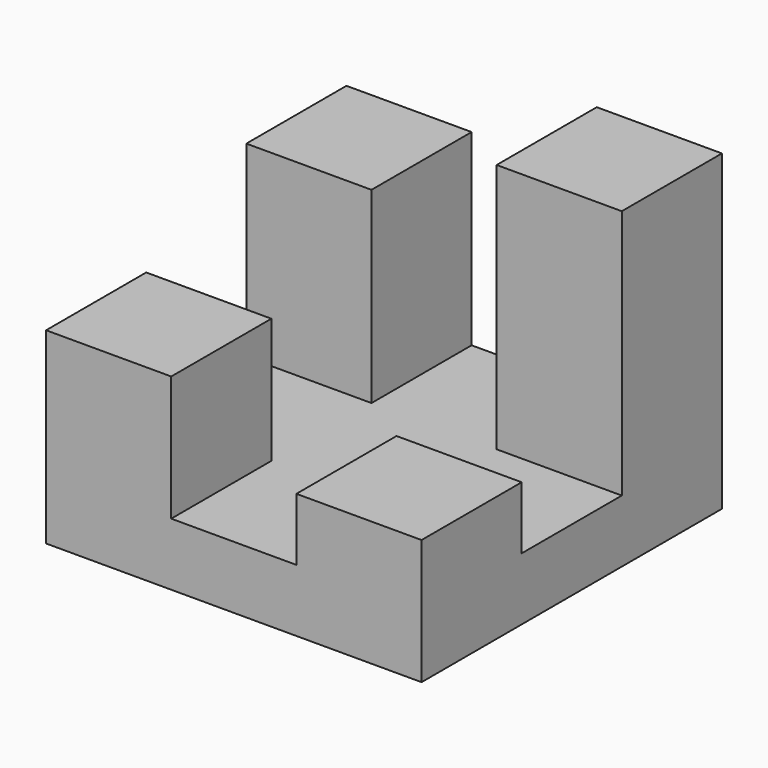
from build123d import *

# Parameters (mm, degrees)
F0_W     = 76.2
F0_H     = 76.2
F1_DEPTH = 12.7
F2_W     = 25.4
F2_H     = 25.4
F3_DEPTH = 12.7
F4_W     = 25.4
F4_H     = 25.4
F5_DEPTH = 25.4
F6_W     = 25.4
F6_H     = 25.4
F7_DEPTH = 50.8
F8_W     = 25.4
F8_H     = 25.4
F9_DEPTH = 38.1


with BuildPart() as f1:
    # F0 (on Top) → F1 (new body)
    with BuildSketch(Plane.XY):
        with Locations((0.52812, -0.847224)):
            Rectangle(F0_W, F0_H)
    extrude(amount=-F1_DEPTH)

    # F2 (on face) → F3 (join)
    with BuildSketch(Plane.XY):
        with Locations((25.92812, -26.247224)):
            Rectangle(F2_W, F2_H)
    extrude(amount=F3_DEPTH)

    # F4 (on face) → F5 (join)
    with BuildSketch(Plane.XY):
        with Locations((-24.87188, -26.247224)):
            Rectangle(F4_W, F4_H)
    extrude(amount=F5_DEPTH)

    # F6 (on face) → F7 (join)
    with BuildSketch(Plane.XY):
        with Locations((25.92812, 24.552776)):
            Rectangle(F6_W, F6_H)
    extrude(amount=F7_DEPTH)

    # F8 (on face) → F9 (join)
    with BuildSketch(Plane.XY):
        with Locations((-24.87188, 24.552776)):
            Rectangle(F8_W, F8_H)
    extrude(amount=F9_DEPTH)


solid = f1.part
